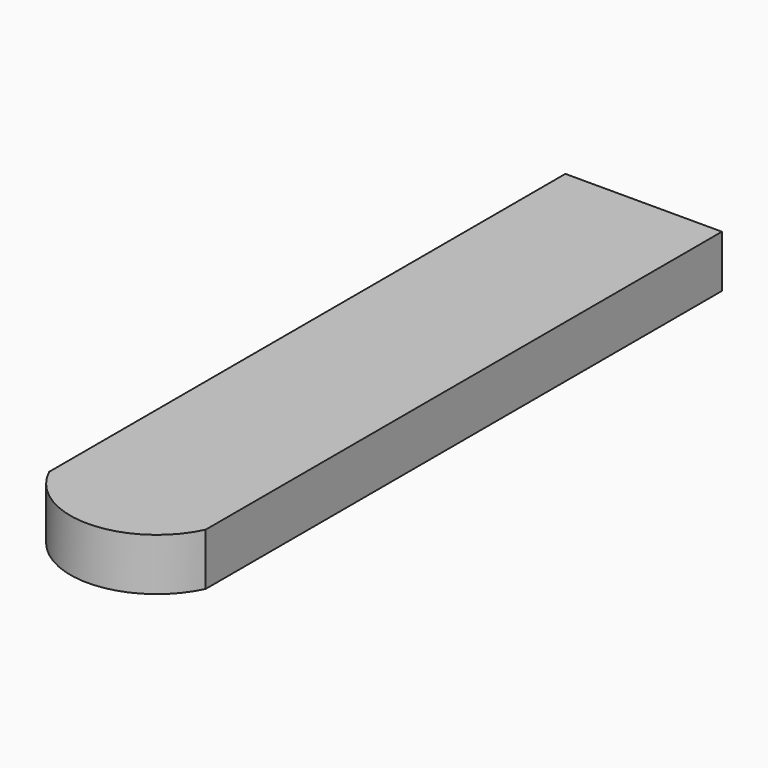
from build123d import *

# Parameters (mm, degrees)
PAD_DEPTH = 0.15


with BuildPart() as part:
    # Sketch → Pad (new body, symmetric)
    with BuildSketch(Plane.XY):
        with BuildLine():
            ThreePointArc((-0.45, -3.709505), (0, -3.994915), (0.45, -3.709505))
            Line((0.45, -3.709505), (0.45, 0))
            Line((-0.45, 0), (0.45, 0))
            Line((-0.45, -3.709505), (-0.45, 0))
        make_face()
    extrude(amount=PAD_DEPTH, both=True)


solid = part.part
